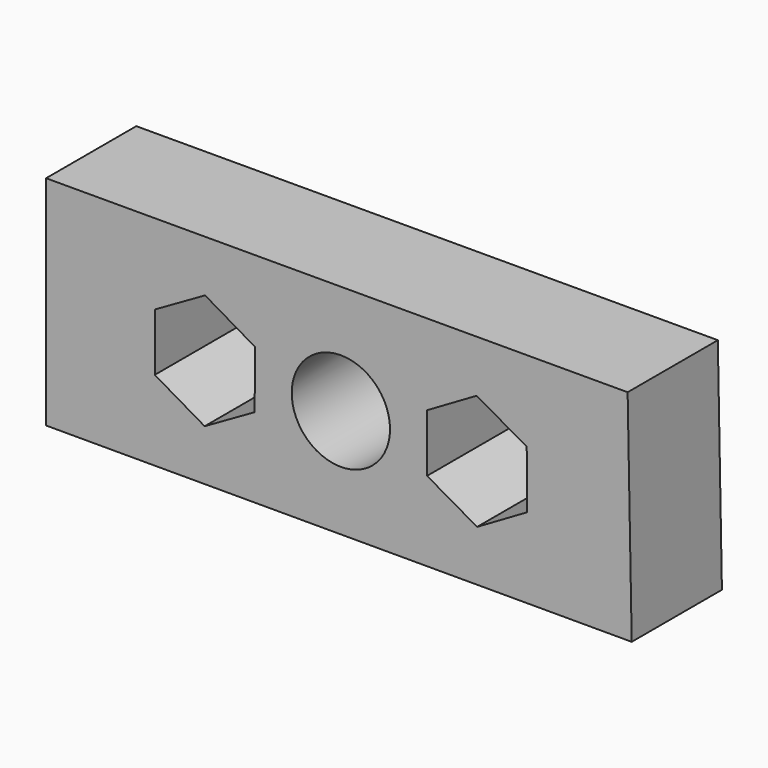
from build123d import *

# Parameters (mm, degrees)
F0_R     = 10.9
F1_DEPTH = 25


with BuildPart() as f1:
    # F0 (on Front) → F1 (new body)
    with BuildSketch(Plane.XZ):
        Polygon((0, -24.081536), (64.493394, -24.081536), (63.586375, 24.353365), (-65.368488, 24.195523), (-65.368488, -24.081536), align=None)
        Polygon((-19.111671, -6.436275), (-30.210936, -12.788216), (-41.26151, -6.351941), (-41.21282, 6.436275), (-30.113555, 12.788216), (-19.06298, 6.351941), align=None, mode=Mode.SUBTRACT)
        Circle(F0_R, mode=Mode.SUBTRACT)
        Polygon((41.21282, 6.436275), (41.26151, -6.351941), (30.210936, -12.788216), (19.111671, -6.436275), (19.06298, 6.351941), (30.113555, 12.788216), align=None, mode=Mode.SUBTRACT)
    extrude(amount=F1_DEPTH)


solid = f1.part
